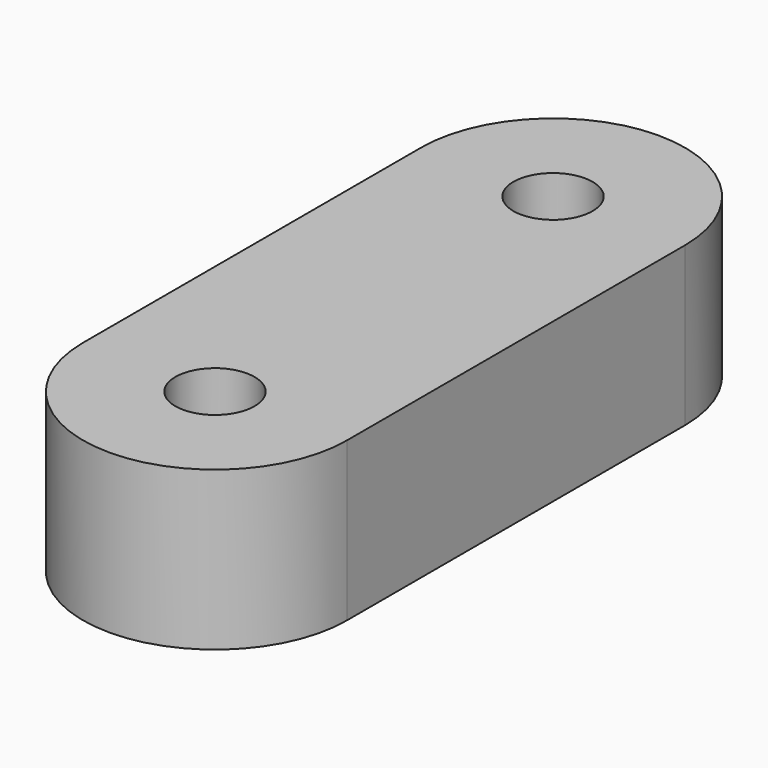
from build123d import *

# Parameters (mm, degrees)
F0_W     = 10
F0_H     = 16
F1_DEPTH = 6
F2_D     = 3


with BuildPart() as f1:
    # F0 (on Top) → F1 (new body)
    with BuildSketch(Plane.XY):
        with BuildLine():
            ThreePointArc((5, 8), (0, 13), (-5, 8))
            Line((-5, 8), (5, 8))
        make_face()
        Rectangle(F0_W, F0_H)
        with BuildLine():
            Line((5, -8), (-5, -8))
            ThreePointArc((-5, -8), (0, -13), (5, -8))
        make_face()
    extrude(amount=F1_DEPTH)

    # F2 (through all)
    with Locations(Plane(origin=(0, 0, 0), x_dir=(1, 0, 0), z_dir=(0, 0, -1))):
        with Locations((0, 8), (0, -8)):
            Hole(F2_D / 2)


solid = f1.part
